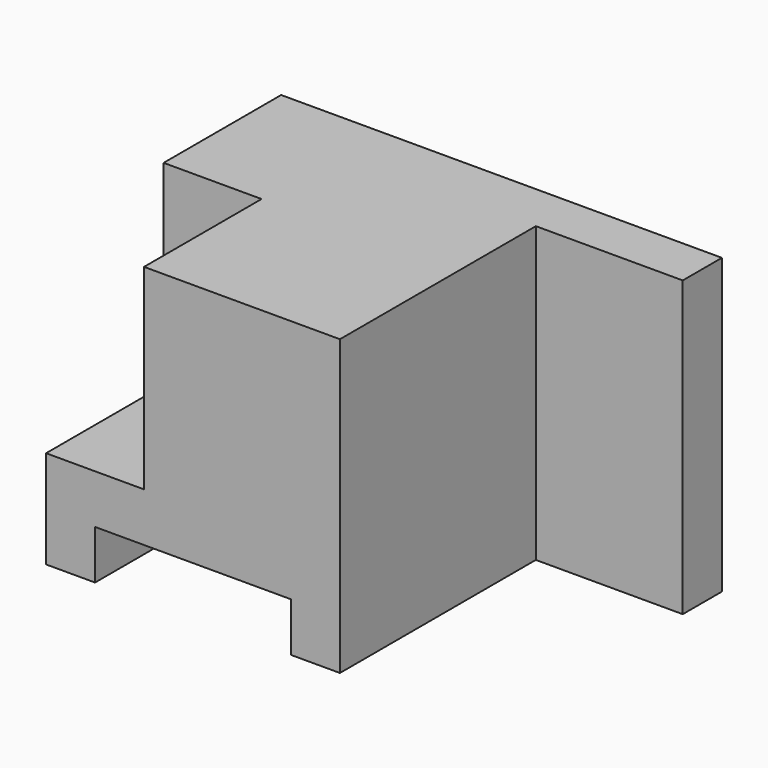
from build123d import *

# Parameters (mm, degrees)
F0_W     = 90
F0_H     = 60
F1_DEPTH = 60
F2_W     = 30
F2_H     = 40
F3_DEPTH = 20
F4_W     = 50
F4_H     = 60
F5_DEPTH = 30
F6_W     = 40
F6_H     = 10
F7_DEPTH = 60.001


with BuildPart() as f1:
    # F0 (on Front) → F1 (new body)
    with BuildSketch(Plane.XZ):
        with Locations((5.542138, 15.830855)):
            Rectangle(F0_W, F0_H)
    extrude(amount=F1_DEPTH)

    # F2 (on face) → F3 (cut)
    with BuildSketch(Plane(origin=(-39.457862, 0, 0), x_dir=(0, -1, 0), z_dir=(-1, 0, 0))):
        with Locations((45, 25.830855)):
            Rectangle(F2_W, F2_H)
    extrude(amount=-F3_DEPTH, mode=Mode.SUBTRACT)

    # F4 (on face) → F5 (cut)
    with BuildSketch(Plane.YZ.offset(50.542138)):
        with Locations((-35, 15.830855)):
            Rectangle(F4_W, F4_H)
    extrude(amount=-F5_DEPTH, mode=Mode.SUBTRACT)

    # F6 (on face) → F7 (cut, through all)
    with BuildSketch(Plane.XZ.offset(60)):
        with Locations((-9.457862, -9.169145)):
            Rectangle(F6_W, F6_H)
    extrude(amount=-F7_DEPTH, mode=Mode.SUBTRACT)


solid = f1.part
